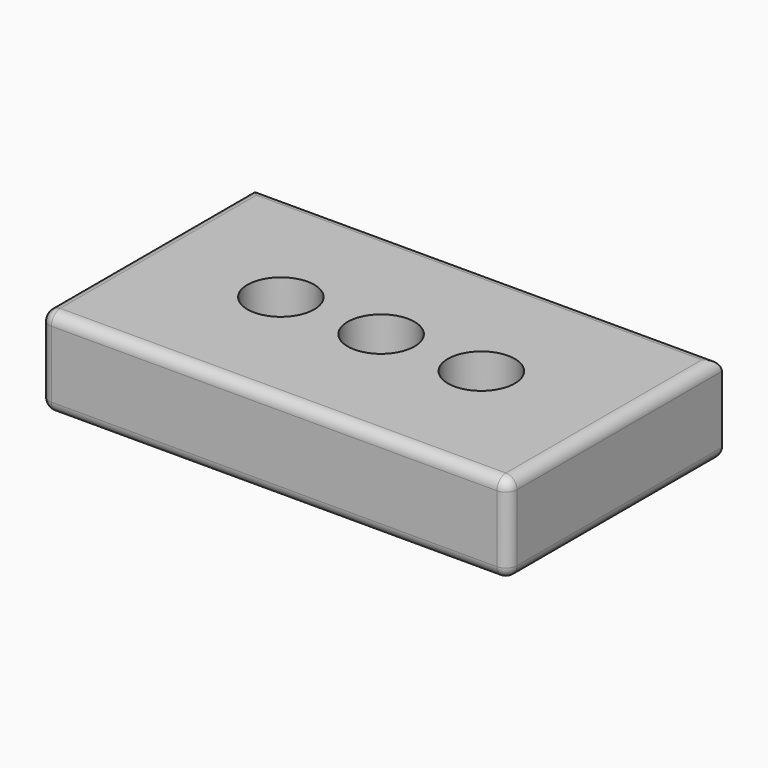
from build123d import *

# Parameters (mm, degrees)
F0_W     = 105
F0_H     = 60
F1_DEPTH = 20
F2_R     = 7.5
F3_DEPTH = 68.6
F4_DEPTH = 55.5
F5_R     = 2.5


with BuildPart() as f1:
    # F0 (on Top) → F1 (new body)
    with BuildSketch(Plane.XY):
        Rectangle(F0_W, F0_H)
    extrude(amount=-F1_DEPTH)

    # F2 (on face) → F3 (cut)
    with BuildSketch(Plane.XY):
        with BuildLine():
            ThreePointArc((-7.5, 0), (0, -7.5), (7.5, 0))
            ThreePointArc((7.5, 0), (0, 7.5), (-7.5, 0))
        make_face()
        with Locations((-22.5, 0)):
            Circle(F2_R)
        with BuildLine():
            ThreePointArc((30, 0), (22.5, 7.5), (15, 0))
            ThreePointArc((15, 0), (22.5, -7.5), (30, 0))
        make_face()
    extrude(amount=-F3_DEPTH, mode=Mode.SUBTRACT)

    # F2 (on face) → F4 (cut)
    with BuildSketch(Plane.XY):
        with BuildLine():
            ThreePointArc((-7.5, 0), (0, -7.5), (7.5, 0))
            ThreePointArc((7.5, 0), (0, 7.5), (-7.5, 0))
        make_face()
        with Locations((-22.5, 0)):
            Circle(F2_R)
        with BuildLine():
            ThreePointArc((30, 0), (22.5, 7.5), (15, 0))
            ThreePointArc((15, 0), (22.5, -7.5), (30, 0))
        make_face()
    extrude(amount=-F4_DEPTH, mode=Mode.SUBTRACT)

    # F5
    f5_edges = [f1.edges().sort_by_distance(p)[0] for p in [
        (0, -30, 0),
        (52.5, 0, 0),
        (52.5, 0, -20),
        (52.5, -30, -10),
        (0, -30, -20),
        (-52.5, -30, -10),
        (-52.5, 0, 0),
        (-52.5, 0, -20),
        (0, 30, 0),
        (0, 30, -20),
    ]]
    fillet(f5_edges, radius=F5_R)


solid = f1.part
